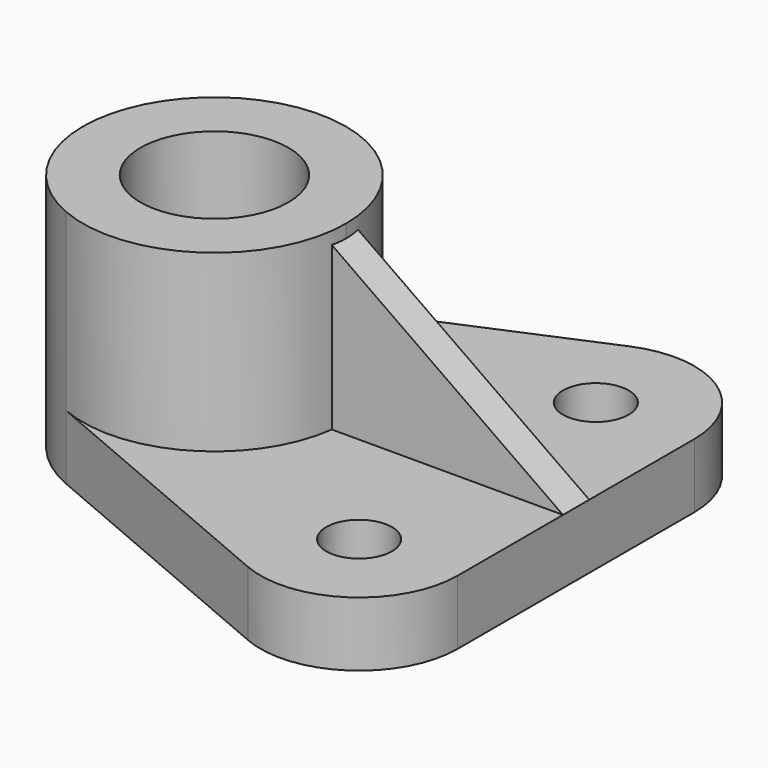
from build123d import *

# Parameters (mm, degrees)
F0_R     = 14.2875
F1_DEPTH = 46.228
F0_R_2   = 6.35
F2_DEPTH = 12.446
F4_DEPTH = 3.175


with BuildPart() as f1:
    # F0 (on Top) → F1 (new body)
    with BuildSketch(Plane.XY):
        with BuildLine():
            ThreePointArc((-15.166243, 0), (-26.566113, 21.193309), (-50.532885, 23.36292))
            ThreePointArc((-50.532885, 23.36292), (-61.759552, 14.00013), (-65.966243, 0))
            ThreePointArc((-65.966243, 0), (-61.759552, -14.00013), (-50.532885, -23.36292))
            ThreePointArc((-50.532885, -23.36292), (-26.566113, -21.193309), (-15.166243, 0))
        make_face()
        with Locations((-40.566243, 0)):
            Circle(F0_R, mode=Mode.SUBTRACT)
    extrude(amount=F1_DEPTH)

    # F0 (on Top) → F2 (join)
    with BuildSketch(Plane.XY):
        with BuildLine():
            Line((29.283757, 0), (29.283757, 28.575))
            ThreePointArc((29.283757, 28.575), (20.733855, 44.469982), (2.758775, 46.09719))
            Line((2.758775, 46.09719), (-50.532885, 23.36292))
            ThreePointArc((-50.532885, 23.36292), (-26.566113, 21.193309), (-15.166243, 0))
            ThreePointArc((-15.166243, 0), (-26.566113, -21.193309), (-50.532885, -23.36292))
            Line((-50.532885, -23.36292), (2.758775, -46.09719))
            ThreePointArc((2.758775, -46.09719), (20.733855, -44.469982), (29.283757, -28.575))
            Line((29.283757, -28.575), (29.283757, 0))
        make_face()
        with Locations((10.233757, -28.575)):
            Circle(F0_R_2, mode=Mode.SUBTRACT)
        with Locations((10.233757, 28.575)):
            Circle(F0_R_2, mode=Mode.SUBTRACT)
    extrude(amount=F2_DEPTH)

    # F3 (on Front) → F4 (join, symmetric)
    with BuildSketch(Plane.XZ):
        Polygon((29.283757, 12.446), (-18.772896, 46.228), (-18.772896, 12.446), align=None)
    extrude(amount=F4_DEPTH, both=True)


solid = f1.part
